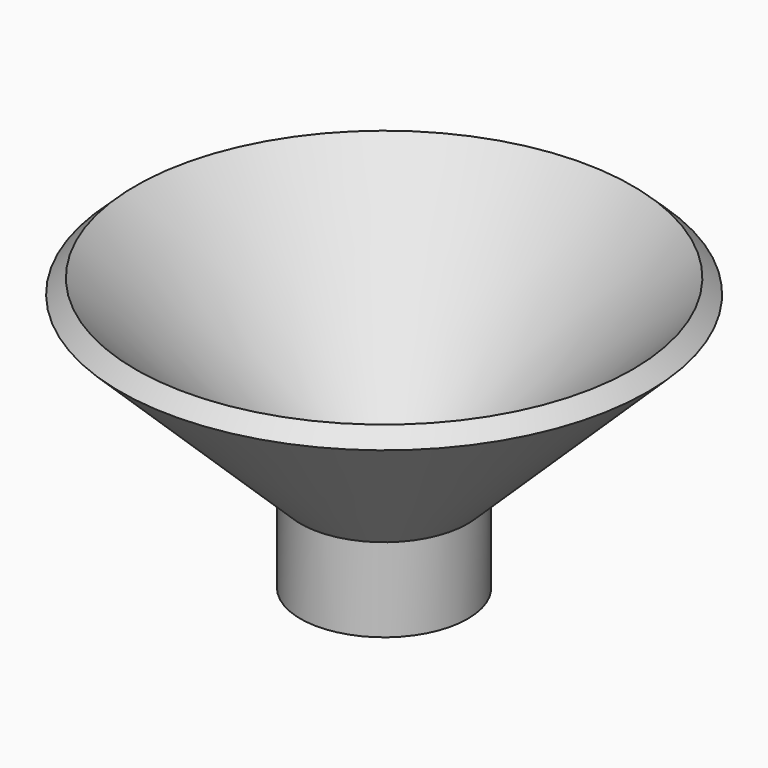
from build123d import *

# Parameters (mm, degrees)
F2_R     = 22.893433
F3_DEPTH = 101.6


with BuildPart() as f1:
    # F0 (on Front) → F1 (revolve)
    with BuildSketch(Plane.XZ):
        Polygon((0, -25.4), (0, 0), (54.706809, 53.043426), (50.03012, 57.477355), (-6.874367, 0), (-25.4, 0), (-25.4, -25.4), align=None)
    revolve(axis=Axis((-25.4, 0, -12.7), (0, 0, 1)))

    # F2 (on face) → F3 (cut)
    with BuildSketch(Plane(origin=(0, 0, -25.4), x_dir=(1, 0, 0), z_dir=(0, 0, -1))):
        with Locations((-25.4, 0)):
            Circle(F2_R)
    extrude(amount=F3_DEPTH, mode=Mode.SUBTRACT)


solid = f1.part
